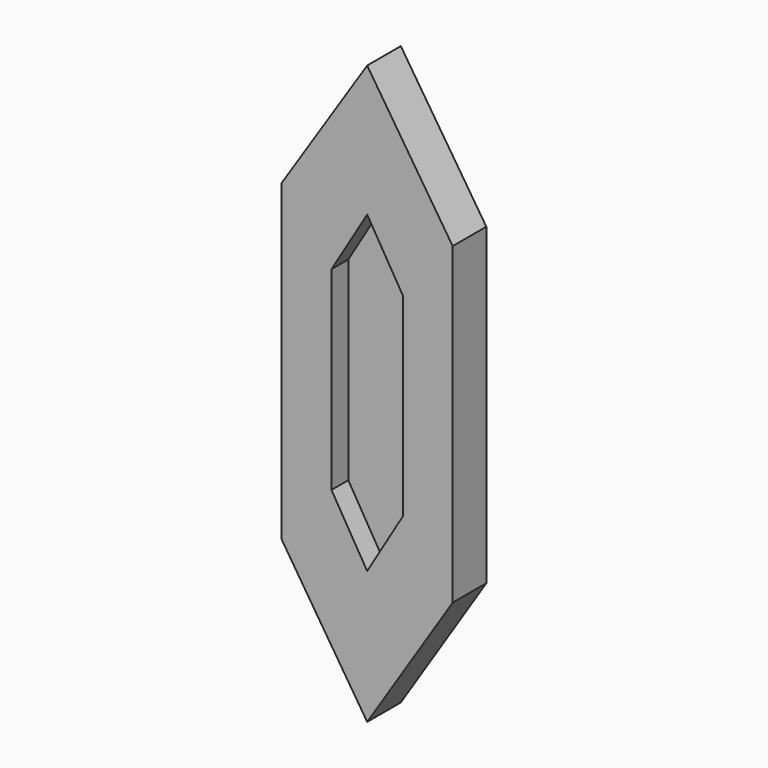
from build123d import *

# Parameters (mm, degrees)
F1_DEPTH = 7.62
F2_DEPTH = 3.81


with BuildPart() as f1:
    # F0 (on Front) → F1 (new body)
    with BuildSketch(Plane.XZ):
        Polygon((0, 52.186977), (-15.490659, 28.424604), (-15.490659, -28.424604), (0, -52.487765), (15.490659, -28.424604), (15.490659, 28.424604), align=None)
        Polygon((-6.466974, -17.596183), (-6.466974, 17.596183), (0, 28.424604), (6.466974, 17.596183), (6.466974, -17.596183), (0, -28.424604), align=None, mode=Mode.SUBTRACT)
    extrude(amount=F1_DEPTH)

    # F0 (on Front) → F2 (join)
    with BuildSketch(Plane.XZ):
        Polygon((0, 28.424604), (-6.466974, 17.596183), (-6.466974, -17.596183), (0, -28.424604), (6.466974, -17.596183), (6.466974, 17.596183), align=None)
    extrude(amount=F2_DEPTH)


solid = f1.part
